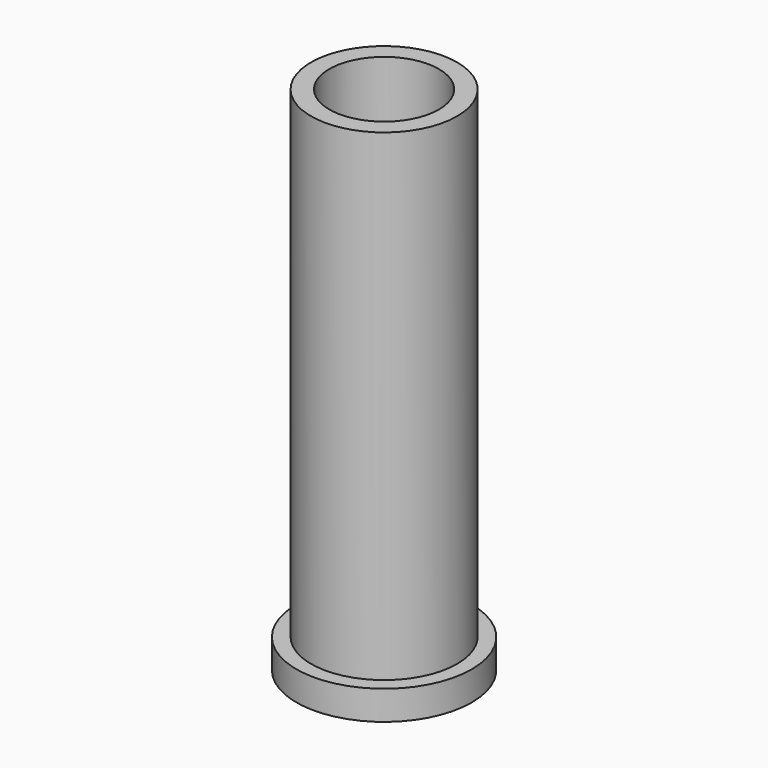
from build123d import *

# Parameters (mm, degrees)
F0_R     = 5
F1_DEPTH = 33
F2_R     = 6
F3_DEPTH = 2
F4_R     = 3.75
F5_DEPTH = 35.001


with BuildPart() as f1:
    # F0 (on Top) → F1 (new body)
    with BuildSketch(Plane.XY):
        Circle(F0_R)
    extrude(amount=F1_DEPTH)

    # F2 (on face) → F3 (join)
    with BuildSketch(Plane(origin=(0, 0, 0), x_dir=(1, 0, 0), z_dir=(0, 0, -1))):
        Circle(F2_R)
    extrude(amount=F3_DEPTH)

    # F4 (on face) → F5 (cut, through all)
    with BuildSketch(Plane(origin=(0, 0, -2), x_dir=(1, 0, 0), z_dir=(0, 0, -1))):
        Circle(F4_R)
    extrude(amount=-F5_DEPTH, mode=Mode.SUBTRACT)


solid = f1.part
